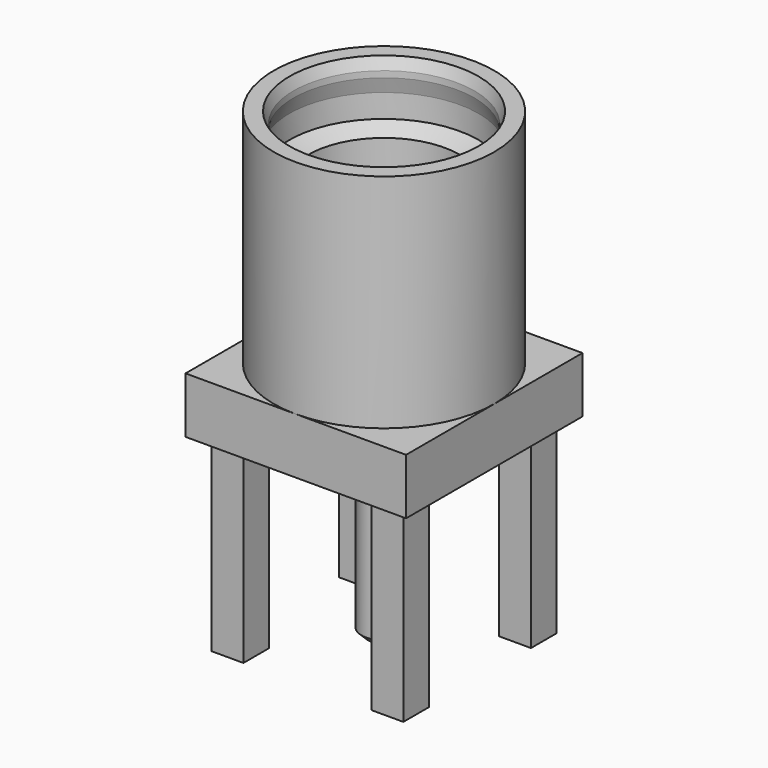
from build123d import *

# Parameters (mm, degrees)
SKETCH_W           = 3.51
SKETCH_H           = 3.51
PAD_DEPTH          = 0.89
SKETCH003_R        = 0.355
PAD002_DEPTH       = 2.91
PAD003_DEPTH       = 1.46
SKETCH005_R        = 1.27
SKETCH005_R_2      = 0.355
POCKET_DEPTH       = 0.2
SKETCH002_W        = 0.51
SKETCH002_H        = 0.51
PAD005_DEPTH       = 3.02
POLARPATTERN_COUNT = 4
CHAMFER_SIZE       = 0.1


with BuildPart() as part:
    # Sketch → Pad (new body)
    with BuildSketch(Plane.XY):
        Rectangle(SKETCH_W, SKETCH_H)
    extrude(amount=PAD_DEPTH)

    # Sketch001 → Revolution (revolve)
    with BuildSketch(Plane.XZ):
        Polygon((1.755, 0.89), (0.825, 0.89), (0.825, 1.82), (1.205, 1.82), (1.205, 3.42), (1.505, 3.53), (1.505, 3.9), (1.44, 4.14), (1.44, 4.24), (1.505, 4.42), (1.755, 4.42), align=None)
    revolve(axis=Axis((0, 0, 0), (0, 0, 1)))

    # Sketch003 → Pad002 (join)
    with BuildSketch(Plane(origin=(0, 0, 0), x_dir=(1, 0, 0), z_dir=(0, 0, -1))):
        Circle(SKETCH003_R)
    extrude(amount=PAD002_DEPTH)

    # Sketch004 → Pad003 (join)
    with BuildSketch(Plane.XY.offset(0.89)):
        with BuildLine():
            ThreePointArc((0.188746, 0.08), (0, 0.205), (-0.188746, 0.08))
            Line((-0.345868, 0.08), (-0.188746, 0.08))
            ThreePointArc((0.345868, 0.08), (0, 0.355), (-0.345868, 0.08))
            Line((0.188746, 0.08), (0.345868, 0.08))
        make_face()
        with BuildLine():
            ThreePointArc((-0.188746, -0.08), (0, -0.205), (0.188746, -0.08))
            Line((0.188746, -0.08), (0.345868, -0.08))
            ThreePointArc((-0.345868, -0.08), (0, -0.355), (0.345868, -0.08))
            Line((-0.345868, -0.08), (-0.188746, -0.08))
        make_face()
    extrude(amount=PAD003_DEPTH)

    # Sketch005 (on Face3 of Pad003) → Pocket (cut)
    with BuildSketch(Plane(origin=(0, 0, 0), x_dir=(1, 0, 0), z_dir=(0, 0, -1))):
        Circle(SKETCH005_R)
        Circle(SKETCH005_R_2, mode=Mode.SUBTRACT)
    extrude(amount=-POCKET_DEPTH, mode=Mode.SUBTRACT)

    # Sketch002 (on Face1 of Revolution) → Pad005 (join)
    with BuildSketch(Plane(origin=(0, 0, 0), x_dir=(1, 0, 0), z_dir=(0, 0, -1))):
        with Locations((-1.27, 1.273)):
            Rectangle(SKETCH002_W, SKETCH002_H)
    pad005 = extrude(amount=PAD005_DEPTH)

    # PolarPattern: Pad005 ×4 about axis
    polarpattern_axis = Axis((0, 0, 0), (0, 0, -1))
    for i in range(1, POLARPATTERN_COUNT):
        add(pad005.rotate(polarpattern_axis, i * 360 / POLARPATTERN_COUNT))

    # Chamfer
    chamfer_edges = [part.edges().sort_by_distance(p)[0] for p in [
        (-0.355, 0, -2.91),
    ]]
    chamfer(chamfer_edges, length=CHAMFER_SIZE)


solid = part.part
